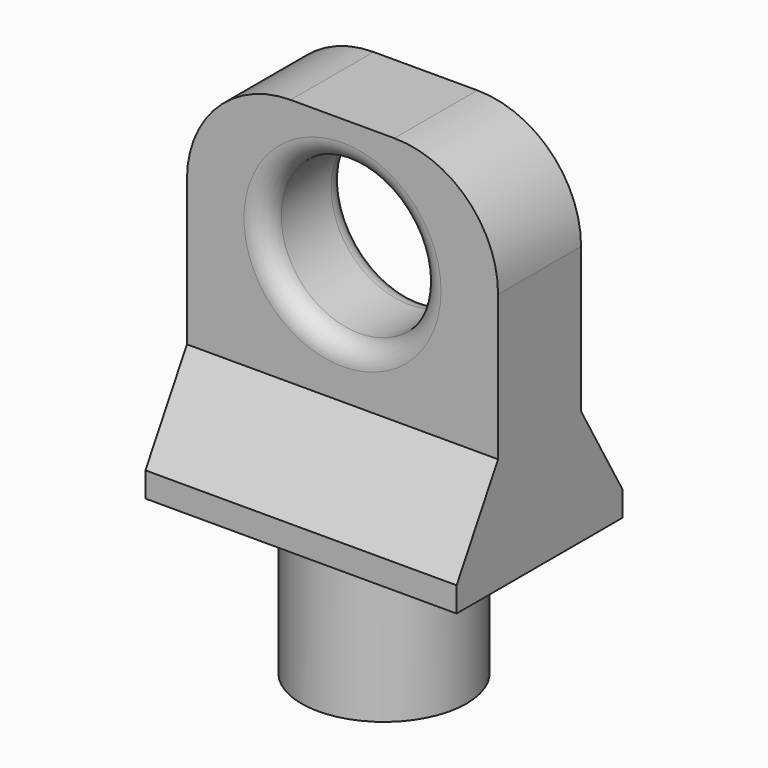
from build123d import *

# Parameters (mm, degrees)
F0_W          = 5.0546
F0_H          = 8.89
F3_DEPTH      = 9.525
F4_R          = 6.35
F5_R          = 4.7625
F6_DEPTH      = 6.351
F6_DEPTH_BACK = 6.351
F7_R          = 1.27


with BuildPart() as f1:
    # F0 (on Front) → F1 (revolve)
    with BuildSketch(Plane.XZ):
        with Locations((2.5273, -4.445)):
            Rectangle(F0_W, F0_H)
    revolve(axis=Axis((0, 0, -4.445), (0, 0, 1)))

    # F2 (on Right) → F3 (join, symmetric)
    with BuildSketch(Plane.YZ):
        Polygon((-6.35, 1.524), (-6.35, 0), (6.35, 0), (6.35, 1.524), (3.175, 7.023261), (3.175, 22.263261), (-3.175, 22.263261), (-3.175, 7.023261), align=None)
    extrude(amount=F3_DEPTH, both=True)

    # F4
    f4_edges = [f1.edges().sort_by_distance(p)[0] for p in [
        (9.525, 0, 22.263261),
        (-9.525, 0, 22.263261),
    ]]
    fillet(f4_edges, radius=F4_R)

    # F5 (on Front) → F6 (cut, two sides)
    with BuildSketch(Plane.XZ) as f6_sk:
        with Locations((0, 14.960761)):
            Circle(F5_R)
    extrude(amount=F6_DEPTH, mode=Mode.SUBTRACT)
    extrude(f6_sk.sketch, amount=-F6_DEPTH_BACK, mode=Mode.SUBTRACT)

    # F7
    f7_edges = [f1.edges().sort_by_distance(p)[0] for p in [
        (-4.7625, -3.175, 14.960761),
        (-4.7625, 3.175, 14.960761),
    ]]
    fillet(f7_edges, radius=F7_R)


solid = f1.part
